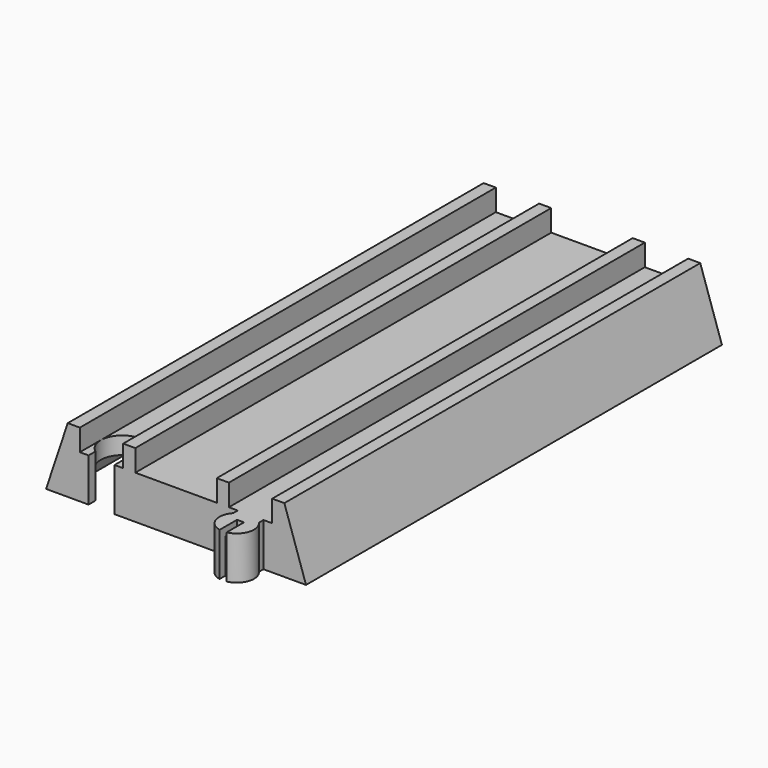
from build123d import *

# Parameters (mm, degrees)
F1_DEPTH  = 76.2
F2_W      = 6.35
F2_H      = 3.175
F2_W_2    = 11.938
F3_DEPTH  = 76.201
F5_DEPTH  = 1.778
F7_DEPTH  = 3.81
F9_DEPTH  = 6.351
F11_DEPTH = 1.27
F13_DEPTH = 5.08


with BuildPart() as f1:
    # F0 (on Front) → F1 (new body)
    with BuildSketch(Plane.XZ):
        Polygon((-15.875, 9.525), (-19.05, 0), (19.05, 0), (15.875, 9.525), align=None)
    extrude(amount=F1_DEPTH)

    # F2 (on face) → F3 (cut, through all)
    with BuildSketch(Plane.XZ.offset(76.2)):
        with Locations((10.922, 7.9375)):
            Rectangle(F2_W, F2_H)
        with Locations((0, 7.9375)):
            Rectangle(F2_W_2, F2_H)
        with Locations((-10.922, 7.9375)):
            Rectangle(F2_W, F2_H)
        Polygon((-16.002, 3.81), (-17.272, 0), (17.272, 0), (16.002, 3.81), align=None)
    extrude(amount=-F3_DEPTH, mode=Mode.SUBTRACT)

    # F4 (on face) → F5 (join)
    with BuildSketch(Plane.XZ.offset(76.2)):
        Polygon((-15.875, 9.525), (-19.05, 0), (19.05, 0), (15.875, 9.525), (14.097, 9.525), (14.097, 6.35), (7.747, 6.35), (7.747, 9.525), (5.969, 9.525), (5.969, 6.35), (-5.969, 6.35), (-5.969, 9.525), (-7.747, 9.525), (-7.747, 6.35), (-14.097, 6.35), (-14.097, 9.525), align=None)
    extrude(amount=-F5_DEPTH)

    # F6 (on face) → F7 (join, through all)
    with BuildSketch(Plane(origin=(0, 0, 3.81), x_dir=(1, 0, 0), z_dir=(0, 0, -1))):
        with BuildLine():
            Line((-8.48241, 74.422), (-13.36159, 74.422))
            ThreePointArc((-13.36159, 74.422), (-10.922, 69.215), (-8.48241, 74.422))
        make_face()
    extrude(amount=F7_DEPTH)

    # F8 (on face) → F9 (cut, through all)
    with BuildSketch(Plane.XY.offset(6.35)):
        with BuildLine():
            Line((-9.017, -76.2), (-9.017, -74.93))
            ThreePointArc((-9.017, -74.93), (-10.922, -69.215), (-12.827, -74.93))
            Line((-12.827, -74.93), (-12.827, -76.2))
            Line((-12.827, -76.2), (-9.017, -76.2))
        make_face()
    extrude(amount=-F9_DEPTH, mode=Mode.SUBTRACT)

    # F10 (on face) → F11 (join)
    with BuildSketch(Plane.XY.offset(6.35)):
        with BuildLine():
            Line((9.038063, -76.2), (9.038063, -77.036362))
            ThreePointArc((9.038063, -77.036362), (8.508657, -79.532069), (10.414, -81.228682))
            Line((10.414, -81.228682), (10.414, -78.047838))
            Line((10.414, -78.047838), (11.43, -78.047838))
            Line((11.43, -78.047838), (11.43, -81.228682))
            ThreePointArc((11.43, -81.228682), (13.335343, -79.532069), (12.805937, -77.036362))
            Line((12.805937, -77.036362), (12.805937, -76.2))
            Line((12.805937, -76.2), (9.038063, -76.2))
        make_face()
    extrude(amount=-F11_DEPTH)

    # F12 (on face) → F13 (join, through all)
    with BuildSketch(Plane(origin=(0, 0, 5.08), x_dir=(1, 0, 0), z_dir=(0, 0, -1))):
        with BuildLine():
            Line((12.805937, 76.2), (12.805937, 77.036362))
            ThreePointArc((12.805937, 77.036362), (13.335343, 79.532069), (11.43, 81.228682))
            Line((11.43, 81.228682), (11.43, 80.176841))
            ThreePointArc((11.43, 80.176841), (12.432533, 78.942152), (11.789937, 77.487298))
            Line((11.789937, 77.487298), (11.789937, 76.2))
            Line((11.789937, 76.2), (12.805937, 76.2))
        make_face()
        with BuildLine():
            ThreePointArc((10.414, 81.228682), (8.508657, 79.532069), (9.038063, 77.036362))
            Line((9.038063, 77.036362), (9.038063, 76.2))
            Line((9.038063, 76.2), (10.054063, 76.2))
            Line((10.054063, 76.2), (10.054063, 77.487298))
            ThreePointArc((10.054063, 77.487298), (9.411467, 78.942152), (10.414, 80.176841))
            Line((10.414, 80.176841), (10.414, 81.228682))
        make_face()
    extrude(amount=F13_DEPTH)


solid = f1.part
